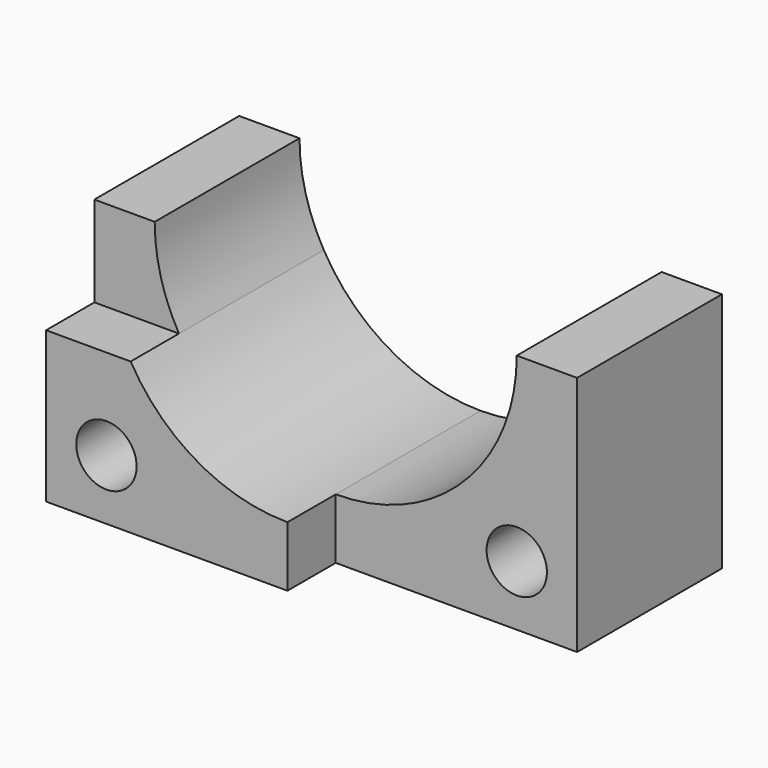
from build123d import *

# Parameters (mm, degrees)
F0_R     = 5
F1_DEPTH = 30
F2_DEPTH = 40


with BuildPart() as f1:
    # F0 (on Front) → F1 (new body)
    with BuildSketch(Plane.XZ):
        with BuildLine():
            Line((-30, 40), (-40, 40))
            Line((-40, 40), (-40, 25))
            Line((-40, 25), (-25.980762, 25))
            ThreePointArc((-25.980762, 25), (-28.977775, 32.235429), (-30, 40))
        make_face()
        with BuildLine():
            Line((0, 10), (0, 0))
            Line((0, 0), (40, 0))
            Line((40, 0), (40, 40))
            Line((40, 40), (30, 40))
            ThreePointArc((30, 40), (21.213203, 18.786797), (0, 10))
        make_face()
        with Locations((30, 10)):
            Circle(F0_R, mode=Mode.SUBTRACT)
    extrude(amount=F1_DEPTH)

    # F0 (on Front) → F2 (join)
    with BuildSketch(Plane.XZ):
        with BuildLine():
            Line((-25.980762, 25), (-40, 25))
            Line((-40, 25), (-40, 0))
            Line((-40, 0), (0, 0))
            Line((0, 0), (0, 10))
            ThreePointArc((0, 10), (-15, 14.019238), (-25.980762, 25))
        make_face()
        with Locations((-30, 10)):
            Circle(F0_R, mode=Mode.SUBTRACT)
    extrude(amount=F2_DEPTH)


solid = f1.part
